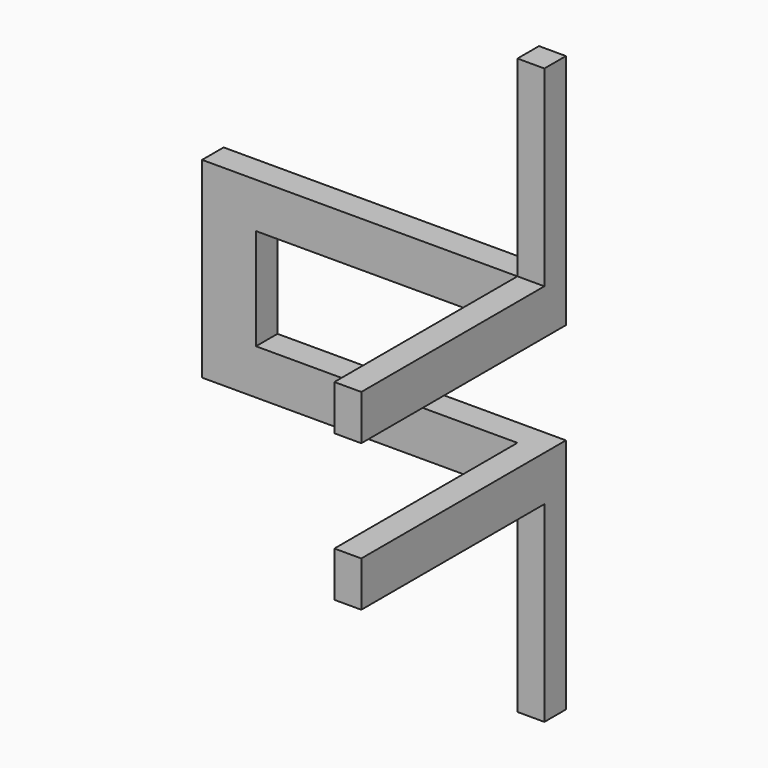
from build123d import *

# Parameters (mm, degrees)
BOX009_W     = 45.5
BOX009_H     = 44
BOX009_DEPTH = 16
BOX018_W     = 54
BOX018_H     = 4.25
BOX018_DEPTH = 30.25
BOX027_W     = 4.25
BOX027_H     = 4.25
BOX027_DEPTH = 90.75
BOX013_W     = 4.25
BOX013_H     = 36.1
BOX013_DEPTH = 30.25


with BuildPart() as cable_exclusion_zone:
    # Box009 → Box009 (new body)
    with BuildSketch(Plane(origin=(126, 0, 7.125), x_dir=(-1, 0, 0), z_dir=(0, 0, 1))):
        with Locations((22.75, 22)):
            Rectangle(BOX009_W, BOX009_H)
    extrude(amount=BOX009_DEPTH)


with BuildPart() as cube001:
    # Box018 → Box018 (new body)
    with BuildSketch(Plane(origin=(72, -4.25, 0), x_dir=(1, 0, 0), z_dir=(0, 0, 1))):
        with Locations((27, 2.125)):
            Rectangle(BOX018_W, BOX018_H)
    extrude(amount=BOX018_DEPTH)


with BuildPart() as base_support001:
    # Box027 → Box027 (new body)
    with BuildSketch(Plane(origin=(126, 0, -30.25), x_dir=(-1, 0, 0), z_dir=(0, 0, 1))):
        with Locations((2.125, 2.125)):
            Rectangle(BOX027_W, BOX027_H)
    extrude(amount=BOX027_DEPTH)


with BuildPart() as fusion005:
    # Fusion005 base: copy of base_support001
    add(base_support001.part)

    # Fusion005: union Cube001
    add(cube001.part)


with BuildPart() as base_support:
    # Box013 → Box013 (new body)
    with BuildSketch(Plane(origin=(126, -4.25, 0), x_dir=(-1, 0, 0), z_dir=(0, 0, 1))):
        with Locations((2.125, 18.05)):
            Rectangle(BOX013_W, BOX013_H)
    extrude(amount=BOX013_DEPTH)


with BuildPart() as cut004:
    # Fusion006 base: copy of base_support001
    add(base_support001.part)

    # Fusion006: union Cube001, Fusion005, base_support
    add(cube001.part)
    add(fusion005.part)
    add(base_support.part)

    # Cut004: cut cable_exclusion_zone
    add(cable_exclusion_zone.part, mode=Mode.SUBTRACT)


solid = cut004.part
